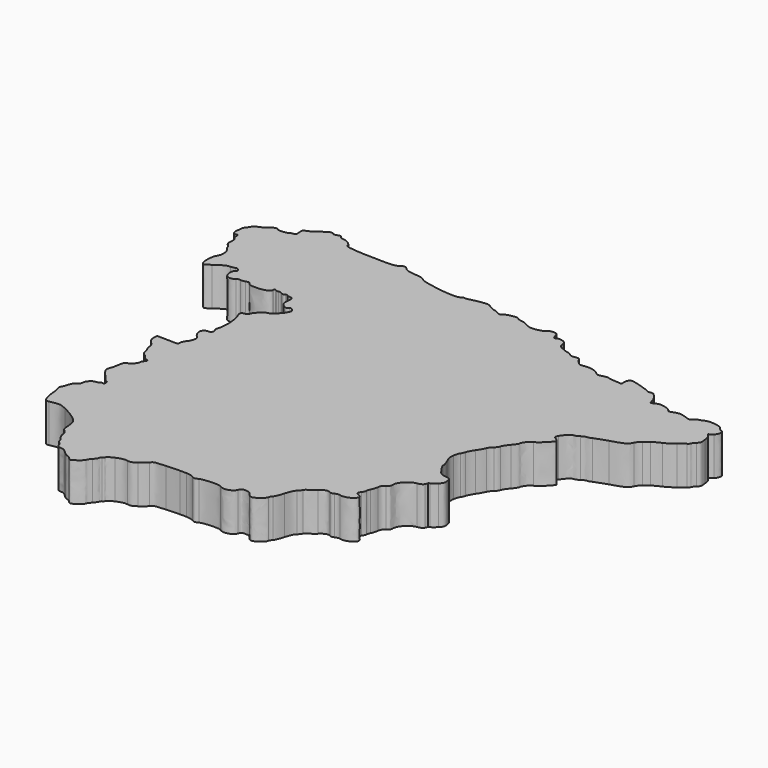
from build123d import *

# Parameters (mm, degrees)
EXTRUDE_DEPTH = 3


with BuildPart() as part:
    # Wire → Extrude (new body)
    with BuildSketch(Plane(origin=(20.00478, -16.805257, 0), x_dir=(0, -1, 0), z_dir=(0, 0, -1))):
        with BuildLine():
            add(Edge.make_bspline(
                [(-8.889987, -19.512641), (-8.785057, -19.399301), (-8.660442, -19.306565), (-8.613065, -19.306565)],
                knots=[0, 0, 0, 0, 1, 1, 1, 1], degree=3))
            add(Edge.make_bspline(
                [(-8.613065, -19.306565), (-8.565692, -19.306565), (-8.486494, -19.230936), (-8.437077, -19.138496)],
                knots=[0, 0, 0, 0, 1, 1, 1, 1], degree=3))
            add(Edge.make_bspline(
                [(-8.437077, -19.138496), (-8.387657, -19.04606), (-8.216625, -18.825619), (-8.057, -18.648629)],
                knots=[0, 0, 0, 0, 1, 1, 1, 1], degree=3))
            add(Edge.make_bspline(
                [(-8.057, -18.648629), (-7.897378, -18.471636), (-7.686284, -18.132837), (-7.587904, -17.895739)],
                knots=[0, 0, 0, 0, 1, 1, 1, 1], degree=3))
            add(Edge.make_bspline(
                [(-7.587904, -17.895739), (-7.489527, -17.658644), (-7.33102, -17.376479), (-7.235671, -17.268706)],
                knots=[0, 0, 0, 0, 1, 1, 1, 1], degree=3))
            add(Edge.make_bspline(
                [(-7.235671, -17.268706), (-7.140323, -17.160937), (-7.00235, -16.975949), (-6.929065, -16.857624)],
                knots=[0, 0, 0, 0, 1, 1, 1, 1], degree=3))
            add(Edge.make_bspline(
                [(-6.929065, -16.857624), (-6.855781, -16.7393), (-6.675937, -16.592347), (-6.529413, -16.531062)],
                knots=[0, 0, 0, 0, 1, 1, 1, 1], degree=3))
            add(Edge.make_bspline(
                [(-6.529413, -16.531062), (-6.176847, -16.383595), (-6.081464, -16.21343), (-5.778643, -15.191661)],
                knots=[0, 0, 0, 0, 1, 1, 1, 1], degree=3))
            add(Edge.make_bspline(
                [(-5.778643, -15.191661), (-5.638105, -14.717465), (-5.475451, -14.259918), (-5.417192, -14.174885)],
                knots=[0, 0, 0, 0, 1, 1, 1, 1], degree=3))
            add(Edge.make_bspline(
                [(-5.417192, -14.174885), (-5.35893, -14.089854), (-5.311263, -13.936698), (-5.311263, -13.834542)],
                knots=[0, 0, 0, 0, 1, 1, 1, 1], degree=3))
            add(Edge.make_bspline(
                [(-5.311263, -13.834542), (-5.311263, -13.732386), (-5.240798, -13.559124), (-5.154672, -13.449514)],
                knots=[0, 0, 0, 0, 1, 1, 1, 1], degree=3))
            add(Edge.make_bspline(
                [(-5.154672, -13.449514), (-5.068543, -13.339908), (-4.998078, -13.173408), (-4.998078, -13.079515)],
                knots=[0, 0, 0, 0, 1, 1, 1, 1], degree=3))
            add(Edge.make_bspline(
                [(-4.998078, -13.079515), (-4.998078, -12.90653), (-4.733771, -12.618991), (-4.365294, -12.391113)],
                knots=[0, 0, 0, 0, 1, 1, 1, 1], degree=3))
            add(Edge.make_bspline(
                [(-4.365294, -12.391113), (-4.148883, -12.257275), (-4.067947, -12.281941), (-3.93548, -12.522104)],
                knots=[0, 0, 0, 0, 1, 1, 1, 1], degree=3))
            add(Edge.make_bspline(
                [(-3.93548, -12.522104), (-3.889343, -12.605755), (-3.809956, -12.68809), (-3.759069, -12.705071)],
                knots=[0, 0, 0, 0, 1, 1, 1, 1], degree=3))
            add(Edge.make_bspline(
                [(-3.759069, -12.705071), (-3.633274, -12.747046), (-2.823423, -11.919029), (-2.765909, -11.689633)],
                knots=[0, 0, 0, 0, 1, 1, 1, 1], degree=3))
            add(Edge.make_bspline(
                [(-2.765909, -11.689633), (-2.716557, -11.492797), (-2.288113, -11.155132), (-2.087712, -11.155132)],
                knots=[0, 0, 0, 0, 1, 1, 1, 1], degree=3))
            add(Edge.make_bspline(
                [(-2.087712, -11.155132), (-2.02108, -11.155132), (-1.808877, -11.016186), (-1.61615, -10.846361)],
                knots=[0, 0, 0, 0, 1, 1, 1, 1], degree=3))
            add(Edge.make_bspline(
                [(-1.61615, -10.846361), (-1.423423, -10.676537), (-1.169804, -10.513489), (-1.052555, -10.48403)],
                knots=[0, 0, 0, 0, 1, 1, 1, 1], degree=3))
            add(Edge.make_bspline(
                [(-1.052555, -10.48403), (-0.935303, -10.454569), (-0.786829, -10.350189), (-0.722606, -10.252072)],
                knots=[0, 0, 0, 0, 1, 1, 1, 1], degree=3))
            add(Edge.make_bspline(
                [(-0.722606, -10.252072), (-0.658387, -10.153955), (-0.49305, -10.027996), (-0.355192, -9.972161)],
                knots=[0, 0, 0, 0, 1, 1, 1, 1], degree=3))
            add(Edge.make_bspline(
                [(-0.355192, -9.972161), (-0.217338, -9.916323), (0.0675, -9.753535), (0.277778, -9.610403)],
                knots=[0, 0, 0, 0, 1, 1, 1, 1], degree=3))
            add(Edge.make_bspline(
                [(0.277778, -9.610403), (0.488059, -9.467271), (0.75231, -9.328297), (0.865004, -9.301573)],
                knots=[0, 0, 0, 0, 1, 1, 1, 1], degree=3))
            add(Edge.make_bspline(
                [(0.865004, -9.301573), (0.977695, -9.274846), (1.122749, -9.207946), (1.187344, -9.152904)],
                knots=[0, 0, 0, 0, 1, 1, 1, 1], degree=3))
            add(Edge.make_bspline(
                [(1.187344, -9.152904), (1.251939, -9.097859), (1.46726, -9.028785), (1.665838, -8.999403)],
                knots=[0, 0, 0, 0, 1, 1, 1, 1], degree=3))
            add(Edge.make_bspline(
                [(1.665838, -8.999403), (1.962927, -8.955441), (2.107089, -8.982696), (2.479597, -9.153271)],
                knots=[0, 0, 0, 0, 1, 1, 1, 1], degree=3))
            add(Edge.make_bspline(
                [(2.479597, -9.153271), (2.728588, -9.267283), (2.975394, -9.344011), (3.028057, -9.323784)],
                knots=[0, 0, 0, 0, 1, 1, 1, 1], degree=3))
            add(Edge.make_bspline(
                [(3.028057, -9.323784), (3.080716, -9.303548), (3.211792, -9.345797), (3.319335, -9.417682)],
                knots=[0, 0, 0, 0, 1, 1, 1, 1], degree=3))
            add(Edge.make_bspline(
                [(3.319335, -9.417682), (4.058777, -9.911864), (4.07332, -9.927988), (4.126099, -10.312137)],
                knots=[0, 0, 0, 0, 1, 1, 1, 1], degree=3))
            add(Edge.make_bspline(
                [(4.126099, -10.312137), (4.183909, -10.732928), (4.181634, -10.730337), (4.55469, -10.800255)],
                knots=[0, 0, 0, 0, 1, 1, 1, 1], degree=3))
            add(Edge.make_bspline(
                [(4.55469, -10.800255), (4.791206, -10.844583), (4.866805, -10.816426), (5.11452, -10.591828)],
                knots=[0, 0, 0, 0, 1, 1, 1, 1], degree=3))
            add(Edge.make_bspline(
                [(5.11452, -10.591828), (5.272031, -10.449007), (5.412964, -10.268565), (5.427705, -10.19085)],
                knots=[0, 0, 0, 0, 1, 1, 1, 1], degree=3))
            add(Edge.make_bspline(
                [(5.427705, -10.19085), (5.442437, -10.113131), (5.472121, -10.057367), (5.493651, -10.066929)],
                knots=[0, 0, 0, 0, 1, 1, 1, 1], degree=3))
            add(Edge.make_bspline(
                [(5.493651, -10.066929), (5.515185, -10.076496), (5.607929, -10.044069), (5.69975, -9.994872)],
                knots=[0, 0, 0, 0, 1, 1, 1, 1], degree=3))
            add(Edge.make_bspline(
                [(5.69975, -9.994872), (5.816082, -9.932546), (5.88283, -9.797765), (5.919894, -9.550324)],
                knots=[0, 0, 0, 0, 1, 1, 1, 1], degree=3))
            add(Edge.make_bspline(
                [(5.919894, -9.550324), (5.992262, -9.067247), (6.54117, -8.529433), (6.96185, -8.529433)],
                knots=[0, 0, 0, 0, 1, 1, 1, 1], degree=3))
            add(Edge.make_bspline(
                [(6.96185, -8.529433), (7.190453, -8.529433), (7.264367, -8.487023), (7.371679, -8.294294)],
                knots=[0, 0, 0, 0, 1, 1, 1, 1], degree=3))
            add(Edge.make_bspline(
                [(7.371679, -8.294294), (7.472554, -8.113127), (7.573068, -8.049175), (7.809595, -8.015675)],
                knots=[0, 0, 0, 0, 1, 1, 1, 1], degree=3))
            add(Edge.make_bspline(
                [(7.809595, -8.015675), (7.978437, -7.991743), (8.204667, -7.922635), (8.312326, -7.862067)],
                knots=[0, 0, 0, 0, 1, 1, 1, 1], degree=3))
            add(Edge.make_bspline(
                [(8.312326, -7.862067), (8.419983, -7.801497), (8.553014, -7.761097), (8.607954, -7.772284)],
                knots=[0, 0, 0, 0, 1, 1, 1, 1], degree=3))
            add(Edge.make_bspline(
                [(8.607954, -7.772284), (8.662891, -7.78346), (8.80867, -7.720756), (8.931906, -7.632911)],
                knots=[0, 0, 0, 0, 1, 1, 1, 1], degree=3))
            add(Edge.make_bspline(
                [(8.931906, -7.632911), (9.166805, -7.465472), (9.245358, -7.497338), (9.354717, -7.804424)],
                knots=[0, 0, 0, 0, 1, 1, 1, 1], degree=3))
            add(Edge.make_bspline(
                [(9.354717, -7.804424), (9.381584, -7.879864), (9.469674, -7.941589), (9.550477, -7.941589)],
                knots=[0, 0, 0, 0, 1, 1, 1, 1], degree=3))
            add(Edge.make_bspline(
                [(9.550477, -7.941589), (9.838821, -7.941589), (10.164813, -7.273597), (10.06695, -6.883276)],
                knots=[0, 0, 0, 0, 1, 1, 1, 1], degree=3))
            add(Edge.make_bspline(
                [(10.06695, -6.883276), (10.036377, -6.76133), (10.057862, -6.594963), (10.118958, -6.480697)],
                knots=[0, 0, 0, 0, 1, 1, 1, 1], degree=3))
            add(Edge.make_bspline(
                [(10.118958, -6.480697), (10.190752, -6.34641), (10.19923, -6.244872), (10.146277, -6.153624)],
                knots=[0, 0, 0, 0, 1, 1, 1, 1], degree=3))
            add(Edge.make_bspline(
                [(10.146277, -6.153624), (10.024323, -5.943521), (10.104443, -5.685262), (10.37631, -5.412116)],
                knots=[0, 0, 0, 0, 1, 1, 1, 1], degree=3))
            add(Edge.make_bspline(
                [(10.37631, -5.412116), (10.514805, -5.272972), (10.670499, -5.061144), (10.722295, -4.941386)],
                knots=[0, 0, 0, 0, 1, 1, 1, 1], degree=3))
            add(Edge.make_bspline(
                [(10.722295, -4.941386), (10.774091, -4.821628), (10.878432, -4.701534), (10.954166, -4.674514)],
                knots=[0, 0, 0, 0, 1, 1, 1, 1], degree=3))
            add(Edge.make_bspline(
                [(10.954166, -4.674514), (11.029898, -4.647505), (11.162327, -4.542234), (11.248456, -4.440605)],
                knots=[0, 0, 0, 0, 1, 1, 1, 1], degree=3))
            add(Edge.make_bspline(
                [(11.248456, -4.440605), (11.350206, -4.320537), (11.610708, -4.199387), (11.99227, -4.09468)],
                knots=[0, 0, 0, 0, 1, 1, 1, 1], degree=3))
            add(Edge.make_bspline(
                [(11.99227, -4.09468), (12.315245, -4.006054), (12.652232, -3.865408), (12.741135, -3.782136)],
                knots=[0, 0, 0, 0, 1, 1, 1, 1], degree=3))
            add(Edge.make_bspline(
                [(12.741135, -3.782136), (12.830035, -3.698866), (12.953352, -3.6301), (13.015173, -3.629321)],
                knots=[0, 0, 0, 0, 1, 1, 1, 1], degree=3))
            add(Edge.make_bspline(
                [(13.015173, -3.629321), (13.1829, -3.627345), (13.636496, -3.042039), (13.636496, -2.827765)],
                knots=[0, 0, 0, 0, 1, 1, 1, 1], degree=3))
            add(Edge.make_bspline(
                [(13.636496, -2.827765), (13.636496, -2.71145), (13.548118, -2.575873), (13.401608, -2.46744)],
                knots=[0, 0, 0, 0, 1, 1, 1, 1], degree=3))
            add(Edge.make_bspline(
                [(13.401608, -2.46744), (13.208337, -2.324399), (13.166718, -2.23774), (13.166718, -1.978349)],
                knots=[0, 0, 0, 0, 1, 1, 1, 1], degree=3))
            add(Edge.make_bspline(
                [(13.166718, -1.978349), (13.166718, -1.700479), (13.193811, -1.653644), (13.395289, -1.583337)],
                knots=[0, 0, 0, 0, 1, 1, 1, 1], degree=3))
            add(Edge.make_bspline(
                [(13.395289, -1.583337), (13.778293, -1.449679), (13.956268, -0.772874), (13.696093, -0.439431)],
                knots=[0, 0, 0, 0, 1, 1, 1, 1], degree=3))
            add(Edge.make_bspline(
                [(13.696093, -0.439431), (13.568684, -0.276143), (13.620153, 0.875629), (13.768805, 1.187682)],
                knots=[0, 0, 0, 0, 1, 1, 1, 1], degree=3))
            add(Edge.make_bspline(
                [(13.768805, 1.187682), (13.89425, 1.45102), (13.894371, 1.482177), (13.77078, 1.69162)],
                knots=[0, 0, 0, 0, 1, 1, 1, 1], degree=3))
            add(Edge.make_bspline(
                [(13.77078, 1.69162), (13.698326, 1.814405), (13.638328, 2.069113), (13.637453, 2.257638)],
                knots=[0, 0, 0, 0, 1, 1, 1, 1], degree=3))
            add(Edge.make_bspline(
                [(13.637453, 2.257638), (13.636606, 2.446163), (13.63576, 2.670951), (13.635477, 2.757168)],
                knots=[0, 0, 0, 0, 1, 1, 1, 1], degree=3))
            add(Edge.make_bspline(
                [(13.635477, 2.757168), (13.635195, 2.843385), (13.654781, 3.319538), (13.679013, 3.815287)],
                knots=[0, 0, 0, 0, 1, 1, 1, 1], degree=3))
            add(Edge.make_bspline(
                [(13.679013, 3.815287), (13.721764, 4.69006), (13.729649, 4.721842), (13.946365, 4.892793)],
                knots=[0, 0, 0, 0, 1, 1, 1, 1], degree=3))
            add(Edge.make_bspline(
                [(13.946365, 4.892793), (14.06918, 4.989673), (14.278304, 5.233128), (14.411086, 5.433803)],
                knots=[0, 0, 0, 0, 1, 1, 1, 1], degree=3))
            add(Edge.make_bspline(
                [(14.411086, 5.433803), (14.613917, 5.740342), (14.644732, 5.84735), (14.603861, 6.103209)],
                knots=[0, 0, 0, 0, 1, 1, 1, 1], degree=3))
            add(Edge.make_bspline(
                [(14.603861, 6.103209), (14.566543, 6.336837), (14.605272, 6.525688), (14.770248, 6.914239)],
                knots=[0, 0, 0, 0, 1, 1, 1, 1], degree=3))
            add(Edge.make_bspline(
                [(14.770248, 6.914239), (14.890796, 7.198184), (15.034092, 7.420727), (15.096373, 7.420727)],
                knots=[0, 0, 0, 0, 1, 1, 1, 1], degree=3))
            add(Edge.make_bspline(
                [(15.096373, 7.420727), (15.157474, 7.420727), (15.227744, 7.473633), (15.252532, 7.538296)],
                knots=[0, 0, 0, 0, 1, 1, 1, 1], degree=3))
            add(Edge.make_bspline(
                [(15.252532, 7.538296), (15.277311, 7.602959), (15.342956, 7.655865), (15.398387, 7.655865)],
                knots=[0, 0, 0, 0, 1, 1, 1, 1], degree=3))
            add(Edge.make_bspline(
                [(15.398387, 7.655865), (15.453821, 7.655865), (15.612328, 7.761677), (15.750626, 7.891003)],
                knots=[0, 0, 0, 0, 1, 1, 1, 1], degree=3))
            add(Edge.make_bspline(
                [(15.750626, 7.891003), (15.888923, 8.020328), (16.049508, 8.12614), (16.107479, 8.12614)],
                knots=[0, 0, 0, 0, 1, 1, 1, 1], degree=3))
            add(Edge.make_bspline(
                [(16.107479, 8.12614), (16.212068, 8.12614), (16.690183, 8.754792), (16.690183, 8.892311)],
                knots=[0, 0, 0, 0, 1, 1, 1, 1], degree=3))
            add(Edge.make_bspline(
                [(16.690183, 8.892311), (16.690183, 8.931748), (16.619718, 9.027854), (16.533592, 9.105879)],
                knots=[0, 0, 0, 0, 1, 1, 1, 1], degree=3))
            add(Edge.make_bspline(
                [(16.533592, 9.105879), (16.533555, 9.105884)],
                knots=[0, 0, 0.000131, 0.000131], degree=1))
            add(Edge.make_bspline(
                [(16.533555, 9.105884), (16.44743, 9.18391), (16.376962, 9.305904), (16.376962, 9.376984)],
                knots=[0, 0, 0, 0, 1, 1, 1, 1], degree=3))
            add(Edge.make_bspline(
                [(16.376962, 9.376984), (16.376962, 9.448063), (16.253645, 9.625869), (16.102924, 9.772107)],
                knots=[0, 0, 0, 0, 1, 1, 1, 1], degree=3))
            add(Edge.make_bspline(
                [(16.102924, 9.772107), (15.896944, 9.971963), (15.828886, 10.103317), (15.828886, 10.301024)],
                knots=[0, 0, 0, 0, 1, 1, 1, 1], degree=3))
            add(Edge.make_bspline(
                [(15.828886, 10.301024), (15.828886, 10.521205), (15.791647, 10.577049), (15.600275, 10.643832)],
                knots=[0, 0, 0, 0, 1, 1, 1, 1], degree=3))
            add(Edge.make_bspline(
                [(15.600275, 10.643832), (15.474539, 10.68771), (15.352326, 10.774052), (15.328695, 10.835703)],
                knots=[0, 0, 0, 0, 1, 1, 1, 1], degree=3))
            add(Edge.make_bspline(
                [(15.328695, 10.835703), (15.305073, 10.897352), (15.228049, 10.947794), (15.157553, 10.947794)],
                knots=[0, 0, 0, 0, 1, 1, 1, 1], degree=3))
            add(Edge.make_bspline(
                [(15.157553, 10.947794), (15.087056, 10.947794), (14.9247, 11.035971), (14.796754, 11.143742)],
                knots=[0, 0, 0, 0, 1, 1, 1, 1], degree=3))
            add(Edge.make_bspline(
                [(14.796754, 11.143742), (14.662845, 11.256537), (14.465408, 11.33969), (14.331491, 11.33969)],
                knots=[0, 0, 0, 0, 1, 1, 1, 1], degree=3))
            add(Edge.make_bspline(
                [(14.331491, 11.33969), (14.175292, 11.33969), (14.038525, 11.4099), (13.915244, 11.553372)],
                knots=[0, 0, 0, 0, 1, 1, 1, 1], degree=3))
            add(Edge.make_bspline(
                [(13.915244, 11.553372), (13.76029, 11.733708), (13.665283, 11.768701), (13.306435, 11.777609)],
                knots=[0, 0, 0, 0, 1, 1, 1, 1], degree=3))
            add(Edge.make_bspline(
                [(13.306435, 11.777609), (13.072571, 11.783417), (12.778126, 11.837499), (12.652111, 11.897796)],
                knots=[0, 0, 0, 0, 1, 1, 1, 1], degree=3))
            add(Edge.make_bspline(
                [(12.652111, 11.897796), (12.388766, 12.023804), (11.946211, 12.6413), (11.594161, 13.37395)],
                knots=[0, 0, 0, 0, 1, 1, 1, 1], degree=3))
            add(Edge.make_bspline(
                [(11.594161, 13.37395), (11.347036, 13.888241), (11.342326, 13.947404), (11.489855, 14.683983)],
                knots=[0, 0, 0, 0, 1, 1, 1, 1], degree=3))
            add(Edge.make_bspline(
                [(11.489855, 14.683983), (11.534519, 14.906984), (11.513195, 14.945965), (11.280655, 15.066342)],
                knots=[0, 0, 0, 0, 1, 1, 1, 1], degree=3))
            add(Edge.make_bspline(
                [(11.280655, 15.066342), (11.138243, 15.140064), (10.808505, 15.214053), (10.547907, 15.230761)],
                knots=[0, 0, 0, 0, 1, 1, 1, 1], degree=3))
            add(Edge.make_bspline(
                [(10.547907, 15.230761), (10.287312, 15.247468), (9.980401, 15.298802), (9.865883, 15.344835)],
                knots=[0, 0, 0, 0, 1, 1, 1, 1], degree=3))
            add(Edge.make_bspline(
                [(9.865883, 15.344835), (9.714011, 15.405885), (9.610935, 15.403494), (9.484954, 15.335999)],
                knots=[0, 0, 0, 0, 1, 1, 1, 1], degree=3))
            add(Edge.make_bspline(
                [(9.484954, 15.335999), (9.389961, 15.285106), (9.170056, 15.202257), (8.99628, 15.151891)],
                knots=[0, 0, 0, 0, 1, 1, 1, 1], degree=3))
            add(Edge.make_bspline(
                [(8.99628, 15.151891), (8.822505, 15.101525), (8.641589, 14.990311), (8.594244, 14.904749)],
                knots=[0, 0, 0, 0, 1, 1, 1, 1], degree=3))
            add(Edge.make_bspline(
                [(8.594244, 14.904749), (8.479983, 14.69825), (8.384634, 14.634258), (8.189054, 14.632814)],
                knots=[0, 0, 0, 0, 1, 1, 1, 1], degree=3))
            add(Edge.make_bspline(
                [(8.189054, 14.632814), (7.981802, 14.63129), (7.686052, 14.319257), (7.686052, 14.102128)],
                knots=[0, 0, 0, 0, 1, 1, 1, 1], degree=3))
            add(Edge.make_bspline(
                [(7.686052, 14.102128), (7.686052, 14.010456), (7.647749, 13.911755), (7.600934, 13.882791)],
                knots=[0, 0, 0, 0, 1, 1, 1, 1], degree=3))
            add(Edge.make_bspline(
                [(7.600934, 13.882791), (7.554119, 13.853827), (7.533207, 13.76357), (7.554455, 13.682217)],
                knots=[0, 0, 0, 0, 1, 1, 1, 1], degree=3))
            add(Edge.make_bspline(
                [(7.554455, 13.682217), (7.584421, 13.567516), (7.550786, 13.534305), (7.404685, 13.534305)],
                knots=[0, 0, 0, 0, 1, 1, 1, 1], degree=3))
            add(Edge.make_bspline(
                [(7.404685, 13.534305), (7.291418, 13.534305), (7.216274, 13.580095), (7.216274, 13.649116)],
                knots=[0, 0, 0, 0, 1, 1, 1, 1], degree=3))
            add(Edge.make_bspline(
                [(7.216274, 13.649116), (7.216274, 13.712262), (7.136998, 13.805402), (7.040105, 13.856094)],
                knots=[0, 0, 0, 0, 1, 1, 1, 1], degree=3))
            add(Edge.make_bspline(
                [(7.040105, 13.856094), (6.943215, 13.906785), (6.775855, 14.045502), (6.668198, 14.164354)],
                knots=[0, 0, 0, 0, 1, 1, 1, 1], degree=3))
            add(Edge.make_bspline(
                [(6.668198, 14.164354), (6.560542, 14.283206), (6.357816, 14.444644), (6.217698, 14.523104)],
                knots=[0, 0, 0, 0, 1, 1, 1, 1], degree=3))
            add(Edge.make_bspline(
                [(6.217698, 14.523104), (5.992843, 14.649015), (5.933111, 14.653322), (5.708773, 14.5598)],
                knots=[0, 0, 0, 0, 1, 1, 1, 1], degree=3))
            add(Edge.make_bspline(
                [(5.708773, 14.5598), (5.568979, 14.501522), (5.278773, 14.432116), (5.063872, 14.405564)],
                knots=[0, 0, 0, 0, 1, 1, 1, 1], degree=3))
            add(Edge.make_bspline(
                [(5.063872, 14.405564), (4.729631, 14.364266), (4.657077, 14.323644), (4.562036, 14.124593)],
                knots=[0, 0, 0, 0, 1, 1, 1, 1], degree=3))
            add(Edge.make_bspline(
                [(4.562036, 14.124593), (4.432157, 13.852588), (4.175078, 13.619), (4.001509, 13.615291)],
                knots=[0, 0, 0, 0, 1, 1, 1, 1], degree=3))
            add(Edge.make_bspline(
                [(4.001509, 13.615291), (3.934379, 13.613852), (3.811062, 13.5609), (3.727471, 13.497608)],
                knots=[0, 0, 0, 0, 1, 1, 1, 1], degree=3))
            add(Edge.make_bspline(
                [(3.727471, 13.497608), (3.51923, 13.339937), (3.472966, 13.349121), (3.443914, 13.5539)],
                knots=[0, 0, 0, 0, 1, 1, 1, 1], degree=3))
            add(Edge.make_bspline(
                [(3.443914, 13.5539), (3.430141, 13.650894), (3.345458, 13.762552), (3.255705, 13.802029)],
                knots=[0, 0, 0, 0, 1, 1, 1, 1], degree=3))
            add(Edge.make_bspline(
                [(3.255705, 13.802029), (3.16595, 13.841506), (3.06025, 13.947318), (3.020815, 14.037167)],
                knots=[0, 0, 0, 0, 1, 1, 1, 1], degree=3))
            add(Edge.make_bspline(
                [(3.020815, 14.037167), (2.977003, 14.136991), (2.860496, 14.210645), (2.721261, 14.22654)],
                knots=[0, 0, 0, 0, 1, 1, 1, 1], degree=3))
            add(Edge.make_bspline(
                [(2.721261, 14.22654), (2.59594, 14.240846), (2.410904, 14.306668), (2.310066, 14.372809)],
                knots=[0, 0, 0, 0, 1, 1, 1, 1], degree=3))
            add(Edge.make_bspline(
                [(2.310066, 14.372809), (2.209228, 14.43895), (2.057904, 14.475049), (1.973787, 14.453029)],
                knots=[0, 0, 0, 0, 1, 1, 1, 1], degree=3))
            add(Edge.make_bspline(
                [(1.973787, 14.453029), (1.869966, 14.425851), (1.728474, 14.502801), (1.533213, 14.692637)],
                knots=[0, 0, 0, 0, 1, 1, 1, 1], degree=3))
            add(Edge.make_bspline(
                [(1.533213, 14.692637), (1.301802, 14.917617), (1.182498, 14.973458), (0.922896, 14.9783)],
                knots=[0, 0, 0, 0, 1, 1, 1, 1], degree=3))
            add(Edge.make_bspline(
                [(0.922896, 14.9783), (0.624429, 14.983866), (0.601659, 14.969619), (0.619394, 14.788371)],
                knots=[0, 0, 0, 0, 1, 1, 1, 1], degree=3))
            add(Edge.make_bspline(
                [(0.619394, 14.788371), (0.643327, 14.543753), (0.662182, 13.711477), (0.649126, 13.475521)],
                knots=[0, 0, 0, 0, 1, 1, 1, 1], degree=3))
            add(Edge.make_bspline(
                [(0.649126, 13.475521), (0.641563, 13.338839), (0.592067, 13.299168), (0.4291, 13.299168)],
                knots=[0, 0, 0, 0, 1, 1, 1, 1], degree=3))
            add(Edge.make_bspline(
                [(0.4291, 13.299168), (0.313451, 13.299168), (0.140689, 13.225681), (0.045185, 13.135864)],
                knots=[0, 0, 0, 0, 1, 1, 1, 1], degree=3))
            add(Edge.make_bspline(
                [(0.045185, 13.135864), (-0.050319, 13.046047), (-0.252686, 12.944513), (-0.404516, 12.910234)],
                knots=[0, 0, 0, 0, 1, 1, 1, 1], degree=3))
            add(Edge.make_bspline(
                [(-0.404516, 12.910234), (-0.647829, 12.855299), (-0.706184, 12.874668), (-0.896512, 13.073538)],
                knots=[0, 0, 0, 0, 1, 1, 1, 1], degree=3))
            add(Edge.make_bspline(
                [(-0.896512, 13.073538), (-1.245747, 13.438445), (-1.787823, 13.357464), (-1.787823, 12.940382)],
                knots=[0, 0, 0, 0, 1, 1, 1, 1], degree=3))
            add(Edge.make_bspline(
                [(-1.787823, 12.940382), (-1.787823, 12.688484), (-1.971902, 12.560662), (-2.162798, 12.680004)],
                knots=[0, 0, 0, 0, 1, 1, 1, 1], degree=3))
            add(Edge.make_bspline(
                [(-2.162798, 12.680004), (-2.254963, 12.737624), (-2.373383, 12.750053), (-2.462546, 12.711465)],
                knots=[0, 0, 0, 0, 1, 1, 1, 1], degree=3))
            add(Edge.make_bspline(
                [(-2.462546, 12.711465), (-2.89263, 12.525332), (-4.099542, 12.567802), (-4.516697, 12.783749)],
                knots=[0, 0, 0, 0, 1, 1, 1, 1], degree=3))
            add(Edge.make_bspline(
                [(-4.516697, 12.783749), (-4.83869, 12.950434), (-4.979164, 12.903601), (-5.011907, 12.618649)],
                knots=[0, 0, 0, 0, 1, 1, 1, 1], degree=3))
            add(Edge.make_bspline(
                [(-5.011907, 12.618649), (-5.028756, 12.471974), (-5.089081, 12.38999), (-5.19372, 12.371545)],
                knots=[0, 0, 0, 0, 1, 1, 1, 1], degree=3))
            add(Edge.make_bspline(
                [(-5.19372, 12.371545), (-5.412053, 12.333058), (-5.937537, 11.809297), (-5.937537, 11.630164)],
                knots=[0, 0, 0, 0, 1, 1, 1, 1], degree=3))
            add(Edge.make_bspline(
                [(-5.937537, 11.630164), (-5.937537, 11.418826), (-6.415627, 10.888233), (-6.768179, 10.708303)],
                knots=[0, 0, 0, 0, 1, 1, 1, 1], degree=3))
            add(Edge.make_bspline(
                [(-6.768179, 10.708303), (-7.066126, 10.55624), (-7.068847, 10.556259), (-7.223922, 10.711497)],
                knots=[0, 0, 0, 0, 1, 1, 1, 1], degree=3))
            add(Edge.make_bspline(
                [(-7.223922, 10.711497), (-7.346057, 10.833761), (-7.359341, 10.888281), (-7.285105, 10.962596)],
                knots=[0, 0, 0, 0, 1, 1, 1, 1], degree=3))
            add(Edge.make_bspline(
                [(-7.285105, 10.962596), (-7.138014, 11.109844), (-7.172185, 11.295345), (-7.382912, 11.49352)],
                knots=[0, 0, 0, 0, 1, 1, 1, 1], degree=3))
            add(Edge.make_bspline(
                [(-7.382912, 11.49352), (-7.541925, 11.643062), (-7.632425, 11.667041), (-7.901479, 11.630916)],
                knots=[0, 0, 0, 0, 1, 1, 1, 1], degree=3))
            add(Edge.make_bspline(
                [(-7.901479, 11.630916), (-8.318823, 11.574879), (-8.443024, 11.625788), (-8.443024, 11.852911)],
                knots=[0, 0, 0, 0, 1, 1, 1, 1], degree=3))
            add(Edge.make_bspline(
                [(-8.443024, 11.852911), (-8.443024, 11.953526), (-8.479967, 12.058705), (-8.525122, 12.086641)],
                knots=[0, 0, 0, 0, 1, 1, 1, 1], degree=3))
            add(Edge.make_bspline(
                [(-8.525122, 12.086641), (-8.581013, 12.121221), (-8.577249, 12.173588), (-8.513325, 12.250697)],
                knots=[0, 0, 0, 0, 1, 1, 1, 1], degree=3))
            add(Edge.make_bspline(
                [(-8.513325, 12.250697), (-8.440137, 12.338977), (-8.441305, 12.404885), (-8.518631, 12.549507)],
                knots=[0, 0, 0, 0, 1, 1, 1, 1], degree=3))
            add(Edge.make_bspline(
                [(-8.518631, 12.549507), (-8.57319, 12.651557), (-8.600879, 12.78262), (-8.580161, 12.840757)],
                knots=[0, 0, 0, 0, 1, 1, 1, 1], degree=3))
            add(Edge.make_bspline(
                [(-8.580161, 12.840757), (-8.559446, 12.898893), (-8.574206, 13.008183), (-8.612967, 13.083623)],
                knots=[0, 0, 0, 0, 1, 1, 1, 1], degree=3))
            add(Edge.make_bspline(
                [(-8.612967, 13.083623), (-8.668452, 13.191619), (-8.650773, 13.220787), (-8.529827, 13.220787)],
                knots=[0, 0, 0, 0, 1, 1, 1, 1], degree=3))
            add(Edge.make_bspline(
                [(-8.529827, 13.220787), (-8.291518, 13.220786), (-8.12985, 13.635711), (-8.12985, 14.247312)],
                knots=[0, 0, 0, 0, 1, 1, 1, 1], degree=3))
            add(Edge.make_bspline(
                [(-8.12985, 14.247312), (-8.12985, 14.690793), (-8.155984, 14.797795), (-8.286588, 14.88938)],
                knots=[0, 0, 0, 0, 1, 1, 1, 1], degree=3))
            add(Edge.make_bspline(
                [(-8.286588, 14.88938), (-8.423152, 14.985134), (-8.4322, 15.031231), (-8.356884, 15.247511)],
                knots=[0, 0, 0, 0, 1, 1, 1, 1], degree=3))
            add(Edge.make_bspline(
                [(-8.356884, 15.247511), (-8.309341, 15.384039), (-8.292506, 15.553308), (-8.319478, 15.623666)],
                knots=[0, 0, 0, 0, 1, 1, 1, 1], degree=3))
            add(Edge.make_bspline(
                [(-8.319478, 15.623666), (-8.346684, 15.69461), (-8.311011, 15.815206), (-8.239395, 15.894415)],
                knots=[0, 0, 0, 0, 1, 1, 1, 1], degree=3))
            add(Edge.make_bspline(
                [(-8.239395, 15.894415), (-8.089394, 16.06034), (-8.070231, 16.385546), (-8.201148, 16.54346)],
                knots=[0, 0, 0, 0, 1, 1, 1, 1], degree=3))
            add(Edge.make_bspline(
                [(-8.201148, 16.54346), (-8.25113, 16.603746), (-8.418115, 16.676751), (-8.572231, 16.705694)],
                knots=[0, 0, 0, 0, 1, 1, 1, 1], degree=3))
            add(Edge.make_bspline(
                [(-8.572231, 16.705694), (-8.788975, 16.746398), (-8.890315, 16.724332), (-9.019646, 16.60827)],
                knots=[0, 0, 0, 0, 1, 1, 1, 1], degree=3))
            add(Edge.make_bspline(
                [(-9.019646, 16.60827), (-9.177967, 16.466196), (-9.193642, 16.465426), (-9.31463, 16.593783)],
                knots=[0, 0, 0, 0, 1, 1, 1, 1], degree=3))
            add(Edge.make_bspline(
                [(-9.31463, 16.593783), (-9.396813, 16.680975), (-9.418195, 16.767603), (-9.374552, 16.83657)],
                knots=[0, 0, 0, 0, 1, 1, 1, 1], degree=3))
            add(Edge.make_bspline(
                [(-9.374552, 16.83657), (-9.337231, 16.895544), (-9.305636, 17.049607), (-9.304341, 17.178932)],
                knots=[0, 0, 0, 0, 1, 1, 1, 1], degree=3))
            add(Edge.make_bspline(
                [(-9.304341, 17.178932), (-9.301518, 17.447528), (-9.229944, 17.593703), (-8.802453, 18.20198)],
                knots=[0, 0, 0, 0, 1, 1, 1, 1], degree=3))
            add(Edge.make_bspline(
                [(-8.802453, 18.20198), (-8.520988, 18.602485), (-8.506504, 18.647696), (-8.622497, 18.763808)],
                knots=[0, 0, 0, 0, 1, 1, 1, 1], degree=3))
            add(Edge.make_bspline(
                [(-8.622497, 18.763808), (-8.79443, 18.935923), (-9.645118, 18.907422), (-9.925054, 18.720168)],
                knots=[0, 0, 0, 0, 1, 1, 1, 1], degree=3))
            add(Edge.make_bspline(
                [(-9.925054, 18.720168), (-10.206684, 18.531779), (-10.747569, 18.559901), (-10.976089, 18.774814)],
                knots=[0, 0, 0, 0, 1, 1, 1, 1], degree=3))
            add(Edge.make_bspline(
                [(-10.976089, 18.774814), (-11.074136, 18.867021), (-11.190669, 18.942464), (-11.235045, 18.942464)],
                knots=[0, 0, 0, 0, 1, 1, 1, 1], degree=3))
            add(Edge.make_bspline(
                [(-11.235045, 18.942464), (-11.279425, 18.942464), (-11.382766, 19.016608), (-11.46469, 19.107229)],
                knots=[0, 0, 0, 0, 1, 1, 1, 1], degree=3))
            add(Edge.make_bspline(
                [(-11.46469, 19.107229), (-11.584716, 19.239996), (-11.678021, 19.264731), (-11.945136, 19.234591)],
                knots=[0, 0, 0, 0, 1, 1, 1, 1], degree=3))
            add(Edge.make_bspline(
                [(-11.945136, 19.234591), (-12.169373, 19.20929), (-12.305537, 19.232051), (-12.36598, 19.304963)],
                knots=[0, 0, 0, 0, 1, 1, 1, 1], degree=3))
            add(Edge.make_bspline(
                [(-12.36598, 19.304963), (-12.415124, 19.36424), (-12.553418, 19.412739), (-12.673303, 19.412739)],
                knots=[0, 0, 0, 0, 1, 1, 1, 1], degree=3))
            add(Edge.make_bspline(
                [(-12.673303, 19.412739), (-12.845535, 19.412739), (-12.883457, 19.44267), (-12.854013, 19.555377)],
                knots=[0, 0, 0, 0, 1, 1, 1, 1], degree=3))
            add(Edge.make_bspline(
                [(-12.854013, 19.555377), (-12.800295, 19.761021), (-13.01819, 19.912054), (-13.277394, 19.848838)],
                knots=[0, 0, 0, 0, 1, 1, 1, 1], degree=3))
            add(Edge.make_bspline(
                [(-13.277394, 19.848838), (-13.396066, 19.819896), (-13.562622, 19.796507), (-13.64752, 19.796862)],
                knots=[0, 0, 0, 0, 1, 1, 1, 1], degree=3))
            add(Edge.make_bspline(
                [(-13.64752, 19.796862), (-13.732418, 19.797229), (-13.864786, 19.740519), (-13.941672, 19.670866)],
                knots=[0, 0, 0, 0, 1, 1, 1, 1], degree=3))
            add(Edge.make_bspline(
                [(-13.941672, 19.670866), (-14.018555, 19.601213), (-14.160493, 19.505005), (-14.257089, 19.45707)],
                knots=[0, 0, 0, 0, 1, 1, 1, 1], degree=3))
            add(Edge.make_bspline(
                [(-14.257089, 19.45707), (-14.355734, 19.408119), (-14.442916, 19.283085), (-14.455985, 19.171821)],
                knots=[0, 0, 0, 0, 1, 1, 1, 1], degree=3))
            add(Edge.make_bspline(
                [(-14.455985, 19.171821), (-14.46877, 19.062868), (-14.600907, 18.836837), (-14.749595, 18.669529)],
                knots=[0, 0, 0, 0, 1, 1, 1, 1], degree=3))
            add(Edge.make_bspline(
                [(-14.749595, 18.669529), (-15.016019, 18.369747), (-15.098349, 18.059676), (-14.937888, 17.9604)],
                knots=[0, 0, 0, 0, 1, 1, 1, 1], degree=3))
            add(Edge.make_bspline(
                [(-14.937888, 17.9604), (-14.845119, 17.903005), (-14.917399, 17.224757), (-15.029091, 17.104472)],
                knots=[0, 0, 0, 0, 1, 1, 1, 1], degree=3))
            add(Edge.make_bspline(
                [(-15.029091, 17.104472), (-15.067121, 17.063519), (-15.098236, 16.957453), (-15.098236, 16.86877)],
                knots=[0, 0, 0, 0, 1, 1, 1, 1], degree=3))
            add(Edge.make_bspline(
                [(-15.098236, 16.86877), (-15.098236, 16.725803), (-15.138108, 16.710702), (-15.45002, 16.735536)],
                knots=[0, 0, 0, 0, 1, 1, 1, 1], degree=3))
            add(Edge.make_bspline(
                [(-15.45002, 16.735536), (-15.737859, 16.758452), (-15.810395, 16.737173), (-15.849071, 16.618532)],
                knots=[0, 0, 0, 0, 1, 1, 1, 1], degree=3))
            add(Edge.make_bspline(
                [(-15.849071, 16.618532), (-15.954097, 16.296315), (-16.163023, 15.946363), (-16.292259, 15.876186)],
                knots=[0, 0, 0, 0, 1, 1, 1, 1], degree=3))
            add(Edge.make_bspline(
                [(-16.292259, 15.876186), (-16.367618, 15.835264), (-16.429278, 15.736255), (-16.429278, 15.656167)],
                knots=[0, 0, 0, 0, 1, 1, 1, 1], degree=3))
            add(Edge.make_bspline(
                [(-16.429278, 15.656167), (-16.429278, 15.576079), (-16.482126, 15.49025), (-16.546722, 15.465437)],
                knots=[0, 0, 0, 0, 1, 1, 1, 1], degree=3))
            add(Edge.make_bspline(
                [(-16.546722, 15.465437), (-16.674258, 15.416444), (-16.708675, 15.060294), (-16.5928, 14.988603)],
                knots=[0, 0, 0, 0, 1, 1, 1, 1], degree=3))
            add(Edge.make_bspline(
                [(-16.5928, 14.988603), (-16.551152, 14.962836), (-16.559295, 14.84403), (-16.612358, 14.703317)],
                knots=[0, 0, 0, 0, 1, 1, 1, 1], degree=3))
            add(Edge.make_bspline(
                [(-16.612358, 14.703317), (-16.689955, 14.497525), (-16.683201, 14.447488), (-16.566282, 14.361903)],
                knots=[0, 0, 0, 0, 1, 1, 1, 1], degree=3))
            add(Edge.make_bspline(
                [(-16.566282, 14.361903), (-16.490932, 14.306749), (-16.429283, 14.165144), (-16.429283, 14.047225)],
                knots=[0, 0, 0, 0, 1, 1, 1, 1], degree=3))
            add(Edge.make_bspline(
                [(-16.429283, 14.047225), (-16.429283, 13.806833), (-16.158296, 13.377543), (-16.006551, 13.377543)],
                knots=[0, 0, 0, 0, 1, 1, 1, 1], degree=3))
            add(Edge.make_bspline(
                [(-16.006551, 13.377543), (-15.811259, 13.377543), (-15.733261, 13.006078), (-15.68563, 11.84915)],
                knots=[0, 0, 0, 0, 1, 1, 1, 1], degree=3))
            add(Edge.make_bspline(
                [(-15.68563, 11.84915), (-15.6066, 9.929453), (-15.628291, 9.451608), (-15.805572, 9.207027)],
                knots=[0, 0, 0, 0, 1, 1, 1, 1], degree=3))
            add(Edge.make_bspline(
                [(-15.805572, 9.207027), (-16.005456, 8.931262), (-15.999651, 8.818256), (-15.774742, 8.60674)],
                knots=[0, 0, 0, 0, 1, 1, 1, 1], degree=3))
            add(Edge.make_bspline(
                [(-15.774742, 8.60674), (-15.621405, 8.462535), (-15.580887, 8.323822), (-15.536513, 7.791183)],
                knots=[0, 0, 0, 0, 1, 1, 1, 1], degree=3))
            add(Edge.make_bspline(
                [(-15.536513, 7.791183), (-15.496107, 7.306186), (-15.444483, 7.108296), (-15.32521, 6.9812)],
                knots=[0, 0, 0, 0, 1, 1, 1, 1], degree=3))
            add(Edge.make_bspline(
                [(-15.32521, 6.9812), (-15.230527, 6.880309), (-15.139491, 6.62882), (-15.097694, 6.352674)],
                knots=[0, 0, 0, 0, 1, 1, 1, 1], degree=3))
            add(Edge.make_bspline(
                [(-15.097694, 6.352674), (-15.059368, 6.099487), (-14.994389, 5.768887), (-14.953298, 5.618007)],
                knots=[0, 0, 0, 0, 1, 1, 1, 1], degree=3))
            add(Edge.make_bspline(
                [(-14.953298, 5.618007), (-14.912203, 5.467127), (-14.857805, 5.015778), (-14.832413, 4.615008)],
                knots=[0, 0, 0, 0, 1, 1, 1, 1], degree=3))
            add(Edge.make_bspline(
                [(-14.832413, 4.615008), (-14.795129, 4.026569), (-14.810033, 3.849994), (-14.909844, 3.697499)],
                knots=[0, 0, 0, 0, 1, 1, 1, 1], degree=3))
            add(Edge.make_bspline(
                [(-14.909844, 3.697499), (-14.977823, 3.593639), (-15.013902, 3.477011), (-14.990018, 3.438323)],
                knots=[0, 0, 0, 0, 1, 1, 1, 1], degree=3))
            add(Edge.make_bspline(
                [(-14.990018, 3.438323), (-14.966142, 3.399636), (-14.978954, 3.26582), (-15.018539, 3.140954)],
                knots=[0, 0, 0, 0, 1, 1, 1, 1], degree=3))
            add(Edge.make_bspline(
                [(-15.018539, 3.140954), (-15.058112, 3.016089), (-15.131922, 2.664575), (-15.182558, 2.35981)],
                knots=[0, 0, 0, 0, 1, 1, 1, 1], degree=3))
            add(Edge.make_bspline(
                [(-15.182558, 2.35981), (-15.272138, 1.820665), (-15.26907, 1.796886), (-15.068989, 1.479603)],
                knots=[0, 0, 0, 0, 1, 1, 1, 1], degree=3))
            add(Edge.make_bspline(
                [(-15.068989, 1.479603), (-14.955888, 1.300252), (-14.863353, 1.096527), (-14.863353, 1.026882)],
                knots=[0, 0, 0, 0, 1, 1, 1, 1], degree=3))
            add(Edge.make_bspline(
                [(-14.863353, 1.026882), (-14.863353, 0.957236), (-14.803751, 0.799248), (-14.730901, 0.675796)],
                knots=[0, 0, 0, 0, 1, 1, 1, 1], degree=3))
            add(Edge.make_bspline(
                [(-14.730901, 0.675796), (-14.606746, 0.465393), (-14.606706, 0.442203), (-14.730336, 0.305546)],
                knots=[0, 0, 0, 0, 1, 1, 1, 1], degree=3))
            add(Edge.make_bspline(
                [(-14.730336, 0.305546), (-14.802825, 0.225363), (-14.897855, -0.028789), (-14.941512, -0.259235)],
                knots=[0, 0, 0, 0, 1, 1, 1, 1], degree=3))
            add(Edge.make_bspline(
                [(-14.941512, -0.259235), (-15.00657, -0.602648), (-14.999624, -0.701748), (-14.903017, -0.808611)],
                knots=[0, 0, 0, 0, 1, 1, 1, 1], degree=3))
            add(Edge.make_bspline(
                [(-14.903017, -0.808611), (-14.838185, -0.880324), (-14.785141, -1.042661), (-14.785141, -1.169362)],
                knots=[0, 0, 0, 0, 1, 1, 1, 1], degree=3))
            add(Edge.make_bspline(
                [(-14.785141, -1.169362), (-14.785141, -1.296063), (-14.704488, -1.522546), (-14.605913, -1.672657)],
                knots=[0, 0, 0, 0, 1, 1, 1, 1], degree=3))
            add(Edge.make_bspline(
                [(-14.605913, -1.672657), (-14.477982, -1.867467), (-14.430379, -2.046531), (-14.439594, -2.298288)],
                knots=[0, 0, 0, 0, 1, 1, 1, 1], degree=3))
            add(Edge.make_bspline(
                [(-14.439594, -2.298288), (-14.453931, -2.689682), (-14.61493, -3.165856), (-14.765566, -3.262328)],
                knots=[0, 0, 0, 0, 1, 1, 1, 1], degree=3))
            add(Edge.make_bspline(
                [(-14.765566, -3.262328), (-14.919835, -3.361125), (-14.88971, -3.862527), (-14.726419, -3.913897)],
                knots=[0, 0, 0, 0, 1, 1, 1, 1], degree=3))
            add(Edge.make_bspline(
                [(-14.726419, -3.913897), (-14.289452, -4.051367), (-14.219791, -4.103302), (-14.316268, -4.219673)],
                knots=[0, 0, 0, 0, 1, 1, 1, 1], degree=3))
            add(Edge.make_bspline(
                [(-14.316268, -4.219673), (-14.447869, -4.378409), (-14.346305, -4.862708), (-14.160547, -4.962228)],
                knots=[0, 0, 0, 0, 1, 1, 1, 1], degree=3))
            add(Edge.make_bspline(
                [(-14.160547, -4.962228), (-14.079106, -5.00586), (-13.93088, -5.042162), (-13.831157, -5.042896)],
                knots=[0, 0, 0, 0, 1, 1, 1, 1], degree=3))
            add(Edge.make_bspline(
                [(-13.831157, -5.042896), (-13.687686, -5.044025), (-13.612974, -5.129843), (-13.473203, -5.454387)],
                knots=[0, 0, 0, 0, 1, 1, 1, 1], degree=3))
            add(Edge.make_bspline(
                [(-13.473203, -5.454387), (-13.376051, -5.67997), (-13.296777, -5.921945), (-13.297034, -5.992105)],
                knots=[0, 0, 0, 0, 1, 1, 1, 1], degree=3))
            add(Edge.make_bspline(
                [(-13.297034, -5.992105), (-13.297283, -6.062269), (-13.241676, -6.166059), (-13.173435, -6.222751)],
                knots=[0, 0, 0, 0, 1, 1, 1, 1], degree=3))
            add(Edge.make_bspline(
                [(-13.173435, -6.222751), (-13.078662, -6.301491), (-13.061328, -6.405693), (-13.100023, -6.664017)],
                knots=[0, 0, 0, 0, 1, 1, 1, 1], degree=3))
            add(Edge.make_bspline(
                [(-13.100023, -6.664017), (-13.142461, -6.947312), (-13.127653, -7.010388), (-13.008781, -7.052629)],
                knots=[0, 0, 0, 0, 1, 1, 1, 1], degree=3))
            add(Edge.make_bspline(
                [(-13.008781, -7.052629), (-12.930735, -7.080371), (-12.778166, -7.19676), (-12.669739, -7.311288)],
                knots=[0, 0, 0, 0, 1, 1, 1, 1], degree=3))
            add(Edge.make_bspline(
                [(-12.669739, -7.311288), (-12.493934, -7.496988), (-12.47938, -7.557208), (-12.535257, -7.86772)],
                knots=[0, 0, 0, 0, 1, 1, 1, 1], degree=3))
            add(Edge.make_bspline(
                [(-12.535257, -7.86772), (-12.607706, -8.270313), (-12.49044, -8.750915), (-12.254971, -9.016449)],
                knots=[0, 0, 0, 0, 1, 1, 1, 1], degree=3))
            add(Edge.make_bspline(
                [(-12.254971, -9.016449), (-12.115601, -9.173616), (-12.110315, -9.22285), (-12.198829, -9.539317)],
                knots=[0, 0, 0, 0, 1, 1, 1, 1], degree=3))
            add(Edge.make_bspline(
                [(-12.198829, -9.539317), (-12.252569, -9.731468), (-12.270993, -9.930062), (-12.239771, -9.980639)],
                knots=[0, 0, 0, 0, 1, 1, 1, 1], degree=3))
            add(Edge.make_bspline(
                [(-12.239771, -9.980639), (-12.208545, -10.031213), (-12.16926, -10.298529), (-12.152468, -10.574675)],
                knots=[0, 0, 0, 0, 1, 1, 1, 1], degree=3))
            add(Edge.make_bspline(
                [(-12.152468, -10.574675), (-12.12194, -11.076754)],
                knots=[0, 0, 1.782306, 1.782306], degree=1))
            add(Edge.make_bspline(
                [(-12.12194, -11.076754), (-12.380879, -11.076754)],
                knots=[0, 0, 0.9175, 0.9175], degree=1))
            add(Edge.make_bspline(
                [(-12.380879, -11.076754), (-12.67728, -11.076754), (-12.82773, -11.194096), (-12.82773, -11.425273)],
                knots=[0, 0, 0, 0, 1, 1, 1, 1], degree=3))
            add(Edge.make_bspline(
                [(-12.82773, -11.425273), (-12.82773, -11.614683), (-12.445606, -12.808847), (-12.352467, -12.910498)],
                knots=[0, 0, 0, 0, 1, 1, 1, 1], degree=3))
            add(Edge.make_bspline(
                [(-12.352467, -12.910498), (-12.317085, -12.949117), (-12.307185, -13.076058), (-12.330454, -13.192591)],
                knots=[0, 0, 0, 0, 1, 1, 1, 1], degree=3))
            add(Edge.make_bspline(
                [(-12.330454, -13.192591), (-12.365475, -13.367882), (-12.321113, -13.44711), (-12.073485, -13.651436)],
                knots=[0, 0, 0, 0, 1, 1, 1, 1], degree=3))
            add(Edge.make_bspline(
                [(-12.073485, -13.651436), (-11.908871, -13.787267), (-11.713824, -13.898403), (-11.640051, -13.898403)],
                knots=[0, 0, 0, 0, 1, 1, 1, 1], degree=3))
            add(Edge.make_bspline(
                [(-11.640051, -13.898403), (-11.566278, -13.898403), (-11.482659, -13.93608), (-11.45423, -13.982127)],
                knots=[0, 0, 0, 0, 1, 1, 1, 1], degree=3))
            add(Edge.make_bspline(
                [(-11.45423, -13.982127), (-11.425802, -14.028174), (-11.359387, -14.04927), (-11.306642, -14.02901)],
                knots=[0, 0, 0, 0, 1, 1, 1, 1], degree=3))
            add(Edge.make_bspline(
                [(-11.306642, -14.02901), (-11.247051, -14.006122), (-11.267876, -14.107767), (-11.361642, -14.297485)],
                knots=[0, 0, 0, 0, 1, 1, 1, 1], degree=3))
            add(Edge.make_bspline(
                [(-11.361642, -14.297485), (-11.495745, -14.568822), (-11.501943, -14.647023), (-11.417313, -15.000165)],
                knots=[0, 0, 0, 0, 1, 1, 1, 1], degree=3))
            add(Edge.make_bspline(
                [(-11.417313, -15.000165), (-11.364941, -15.218715), (-11.259401, -15.43672), (-11.182783, -15.484619)],
                knots=[0, 0, 0, 0, 1, 1, 1, 1], degree=3))
            add(Edge.make_bspline(
                [(-11.182783, -15.484619), (-11.056015, -15.56387), (-11.053303, -15.599574), (-11.152634, -15.881406)],
                knots=[0, 0, 0, 0, 1, 1, 1, 1], degree=3))
            add(Edge.make_bspline(
                [(-11.152634, -15.881406), (-11.293259, -16.280398), (-11.29011, -16.423245), (-11.13079, -16.872311)],
                knots=[0, 0, 0, 0, 1, 1, 1, 1], degree=3))
            add(Edge.make_bspline(
                [(-11.13079, -16.872311), (-11.002599, -17.233623), (-11.00344, -17.245214), (-11.169939, -17.411889)],
                knots=[0, 0, 0, 0, 1, 1, 1, 1], degree=3))
            add(Edge.make_bspline(
                [(-11.169939, -17.411889), (-11.263524, -17.505573), (-11.340094, -17.629711), (-11.340094, -17.68775)],
                knots=[0, 0, 0, 0, 1, 1, 1, 1], degree=3))
            add(Edge.make_bspline(
                [(-11.340094, -17.68775), (-11.340094, -17.745789), (-11.396778, -17.907025), (-11.466061, -18.046054)],
                knots=[0, 0, 0, 0, 1, 1, 1, 1], degree=3))
            add(Edge.make_bspline(
                [(-11.466061, -18.046054), (-11.653397, -18.421974), (-11.553801, -19.265488), (-11.302629, -19.430238)],
                knots=[0, 0, 0, 0, 1, 1, 1, 1], degree=3))
            add(Edge.make_bspline(
                [(-11.302629, -19.430238), (-11.203041, -19.495558), (-11.103561, -19.617902), (-11.081564, -19.702111)],
                knots=[0, 0, 0, 0, 1, 1, 1, 1], degree=3))
            add(Edge.make_bspline(
                [(-11.081564, -19.702111), (-11.024389, -19.920975), (-10.672607, -19.899568), (-10.436125, -19.662834)],
                knots=[0, 0, 0, 0, 1, 1, 1, 1], degree=3))
            add(Edge.make_bspline(
                [(-10.436125, -19.662834), (-10.330424, -19.557021), (-10.243943, -19.429668), (-10.243943, -19.379825)],
                knots=[0, 0, 0, 0, 1, 1, 1, 1], degree=3))
            add(Edge.make_bspline(
                [(-10.243943, -19.379825), (-10.243943, -19.329981), (-10.182283, -19.363202), (-10.106924, -19.45364)],
                knots=[0, 0, 0, 0, 1, 1, 1, 1], degree=3))
            add(Edge.make_bspline(
                [(-10.106924, -19.45364), (-10.010319, -19.569577), (-9.838776, -19.632922), (-9.525337, -19.6684)],
                knots=[0, 0, 0, 0, 1, 1, 1, 1], degree=3))
            add(Edge.make_bspline(
                [(-9.525337, -19.6684), (-9.114111, -19.714944), (-9.066461, -19.703263), (-8.889987, -19.512641)],
                knots=[0, 0, 0, 0, 1, 1, 1, 1], degree=3))
        make_face()
    extrude(amount=EXTRUDE_DEPTH)


solid = part.part
